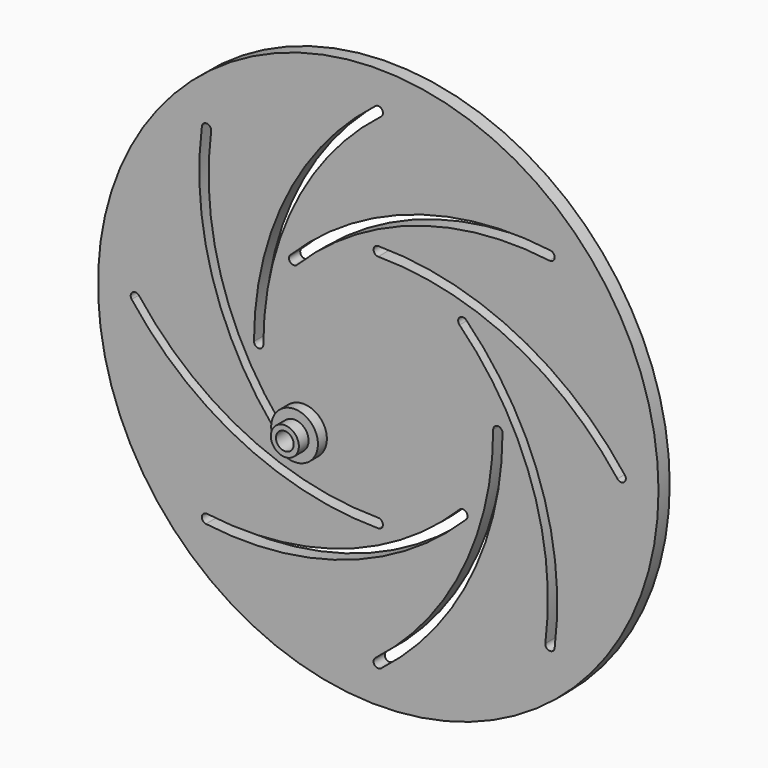
from build123d import *

# Parameters (mm, degrees)
F0_R     = 300
F1_DEPTH = 15
F3_R     = 15
F3_R_2   = 9.525
F4_DEPTH = 25
F3_R_3   = 25
F5_DEPTH = 12


with BuildPart() as f1:
    # F0 (on Front) → F1 (new body)
    with BuildSketch(Plane.XZ):
        Circle(F0_R)
        with BuildLine():
            ThreePointArc((94.0624477635, -94.0624477635), (-34.1854315992, -173.8653392644), (-184.4944590288, -188.8057651644))
            ThreePointArc((-184.4944590288, -188.8057651644), (-188.8057651644, -183.2010671882), (-183.2010671882, -178.8897610526))
            ThreePointArc((-183.2010671882, -178.8897610526), (-37.405493795, -164.3979637328), (86.9913799516, -86.9913799516))
            ThreePointArc((86.9913799516, -86.9913799516), (94.0624477635, -86.9913799516), (94.0624477635, -94.0624477635))
        make_face(mode=Mode.SUBTRACT)
        with BuildLine():
            ThreePointArc((0, -133.0243893371), (-147.1141109087, -98.7686099056), (-263.9631199455, -3.0485538042))
            ThreePointArc((-263.9631199455, -3.0485538042), (-263.0485538042, 3.9631199455), (-256.0368800545, 3.0485538042))
            ThreePointArc((-256.0368800545, 3.0485538042), (-142.6965932848, -89.7972366527), (0, -123.0243893371))
            ThreePointArc((0, -123.0243893371), (5, -128.0243893371), (0, -133.0243893371))
        make_face(mode=Mode.SUBTRACT)
        with BuildLine():
            ThreePointArc((133.0243893371, 0), (98.7686099056, -147.1141109087), (3.0485538042, -263.9631199455))
            ThreePointArc((3.0485538042, -263.9631199455), (-3.9631199455, -263.0485538042), (-3.0485538042, -256.0368800545))
            ThreePointArc((-3.0485538042, -256.0368800545), (89.7972366527, -142.6965932848), (123.0243893371, 0))
            ThreePointArc((123.0243893371, 0), (128.0243893371, 5), (133.0243893371, 0))
        make_face(mode=Mode.SUBTRACT)
        with BuildLine():
            ThreePointArc((94.0624477635, 94.0624477635), (173.8653392644, -34.1854315992), (188.8057651644, -184.4944590288))
            ThreePointArc((188.8057651644, -184.4944590288), (183.2010671882, -188.8057651644), (178.8897610526, -183.2010671882))
            ThreePointArc((178.8897610526, -183.2010671882), (164.3979637328, -37.405493795), (86.9913799516, 86.9913799516))
            ThreePointArc((86.9913799516, 86.9913799516), (86.9913799516, 94.0624477635), (94.0624477635, 94.0624477635))
        make_face(mode=Mode.SUBTRACT)
        with BuildLine():
            ThreePointArc((-94.0624477635, -94.0624477635), (-173.8653392644, 34.1854315992), (-188.8057651644, 184.4944590288))
            ThreePointArc((-188.8057651644, 184.4944590288), (-183.2010671882, 188.8057651644), (-178.8897610526, 183.2010671882))
            ThreePointArc((-178.8897610526, 183.2010671882), (-164.3979637328, 37.405493795), (-86.9913799516, -86.9913799516))
            ThreePointArc((-86.9913799516, -86.9913799516), (-86.9913799516, -94.0624477635), (-94.0624477635, -94.0624477635))
        make_face(mode=Mode.SUBTRACT)
        with BuildLine():
            ThreePointArc((-133.0243893371, 0), (-98.7686099056, 147.1141109087), (-3.0485538042, 263.9631199455))
            ThreePointArc((-3.0485538042, 263.9631199455), (3.9631199455, 263.0485538042), (3.0485538042, 256.0368800545))
            ThreePointArc((3.0485538042, 256.0368800545), (-89.7972366527, 142.6965932848), (-123.0243893371, 0))
            ThreePointArc((-123.0243893371, 0), (-128.0243893371, -5), (-133.0243893371, 0))
        make_face(mode=Mode.SUBTRACT)
        with BuildLine():
            ThreePointArc((0, 133.0243893371), (147.1141109087, 98.7686099056), (263.9631199455, 3.0485538042))
            ThreePointArc((263.9631199455, 3.0485538042), (263.0485538042, -3.9631199455), (256.0368800545, -3.0485538042))
            ThreePointArc((256.0368800545, -3.0485538042), (142.6965932848, 89.7972366527), (0, 123.0243893371))
            ThreePointArc((0, 123.0243893371), (-5, 128.0243893371), (0, 133.0243893371))
        make_face(mode=Mode.SUBTRACT)
        with BuildLine():
            ThreePointArc((-94.0624477635, 94.0624477635), (34.1854315992, 173.8653392644), (184.4944590288, 188.8057651644))
            ThreePointArc((184.4944590288, 188.8057651644), (188.8057651644, 183.2010671882), (183.2010671882, 178.8897610526))
            ThreePointArc((183.2010671882, 178.8897610526), (37.405493795, 164.3979637328), (-86.9913799516, 86.9913799516))
            ThreePointArc((-86.9913799516, 86.9913799516), (-94.0624477635, 86.9913799516), (-94.0624477635, 94.0624477635))
        make_face(mode=Mode.SUBTRACT)
    extrude(amount=F1_DEPTH)


with BuildPart() as f4:
    # F3 (on offset) → F4 (new body)
    with BuildSketch(Plane.XZ.offset(115)):
        Circle(F3_R)
        Circle(F3_R_2, mode=Mode.SUBTRACT)
    extrude(amount=F4_DEPTH)

    # F3 (on offset) → F5 (join)
    with BuildSketch(Plane.XZ.offset(115)):
        Circle(F3_R_3)
        Circle(F3_R, mode=Mode.SUBTRACT)
    extrude(amount=F5_DEPTH)


solid = Compound([f1.part, f4.part])
